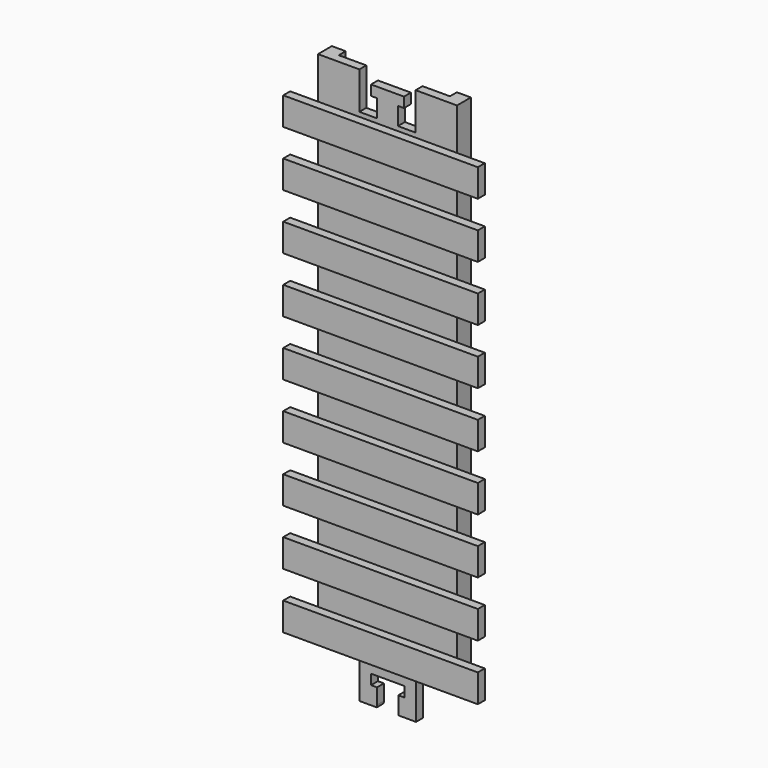
from build123d import *

# Parameters (mm, degrees)
F1_DEPTH = 3.175
F2_W     = 50.8
F2_H     = 10.1607441902
F2_W_2   = 10.16
F2_H_2   = 10.16
F2_H_3   = 10.1088657975
F2_H_4   = 10.2023631334
F3_DEPTH = 3.175
F2_H_5   = 10.2422460914
F4_DEPTH = 3.175
F5_W     = 5.1035365641
F5_H     = 189.5493796663
F5_W_2   = 5.0522950478
F6_DEPTH = 3.175


with BuildPart() as f1:
    # F0 (on Front) → F1 (new body)
    with BuildSketch(Plane.XZ):
        with BuildLine():
            Line((25.5517161727, -116.6203990579), (15.2647161727, -116.6203990579))
            Line((15.2647161727, -116.6203990579), (15.2647161727, -130.2710193916))
            Line((15.2647161727, -130.2710193916), (21.4880950641, -130.2710193916))
            ThreePointArc((21.4880950641, -130.2710193916), (21.5113434052, -129.8451671692), (21.5808121, -129.4243766025))
            Line((21.5808121, -129.4243766025), (21.5808121, -123.7957928851))
            Line((21.5808121, -123.7957928851), (19.3710121, -123.7957928851))
            Line((19.3710121, -123.7957928851), (19.3710121, -120.0983975604))
            Line((19.3710121, -120.0983975604), (31.5819798807, -120.0983975604))
            Line((31.5819798807, -120.0983975604), (31.5819798807, -123.7957928851))
            Line((31.5819798807, -123.7957928851), (29.3721798807, -123.7957928851))
            Line((29.3721798807, -123.7957928851), (29.3721798807, -130.2710193916))
            Line((29.3721798807, -130.2710193916), (35.8426272869, -130.2710193916))
            Line((35.8426272869, -130.2710193916), (35.8426272869, -116.6203990579))
            Line((35.8426272869, -116.6203990579), (25.5517161727, -116.6203990579))
        make_face()
        Polygon((15.113, 72.9289806084), (0, 72.9289806084), (0, -116.6203990579), (15.2647161727, -116.6203990579), (25.5517161727, -116.6203990579), (35.8426272869, -116.6203990579), (50.8, -116.6203990579), (50.8, 72.9289806084), (35.6909111142, 72.9289806084), (35.6909111142, 59.2783602747), (29.220463708, 59.2783602747), (29.220463708, 65.7749548554), (31.430263708, 65.7749548554), (31.430263708, 69.4723501801), (19.3802, 69.4723501801), (19.3802, 65.7749548554), (21.59, 65.7749548554), (21.59, 59.2783602747), (15.113, 59.2783602747), align=None)
    extrude(amount=F1_DEPTH)

    # F2 (on face) → F3 (join)
    with BuildSketch(Plane.XZ.offset(3.175)):
        with Locations((25.4, 52.5756378829)):
            Rectangle(F2_W, F2_H)
        with Locations((55.88, 52.5756378829)):
            Rectangle(F2_W_2, F2_H)
        with Locations((-5.08, 52.5756378829)):
            Rectangle(F2_W_2, F2_H)
        with Locations((-5.08, 32.2552657878)):
            Rectangle(F2_W_2, F2_H_2)
        with Locations((25.4, 32.2552657878)):
            Rectangle(F2_W, F2_H_2)
        with Locations((55.88, 32.2552657878)):
            Rectangle(F2_W_2, F2_H_2)
        with Locations((55.88, 11.9352657878)):
            Rectangle(F2_W_2, F2_H_2)
        with Locations((25.4, 11.9352657878)):
            Rectangle(F2_W, F2_H_2)
        with Locations((-5.08, 11.9352657878)):
            Rectangle(F2_W_2, F2_H_2)
        with Locations((-5.08, -8.3847342122)):
            Rectangle(F2_W_2, F2_H_2)
        with Locations((25.4, -8.3847342122)):
            Rectangle(F2_W, F2_H_2)
        with Locations((55.88, -8.3847342122)):
            Rectangle(F2_W_2, F2_H_2)
        with Locations((55.88, -28.7047342122)):
            Rectangle(F2_W_2, F2_H_2)
        with Locations((25.4, -28.7047342122)):
            Rectangle(F2_W, F2_H_2)
        with Locations((-5.08, -28.7047342122)):
            Rectangle(F2_W_2, F2_H_2)
        with Locations((-5.08, -49.0247342122)):
            Rectangle(F2_W_2, F2_H_2)
        with Locations((25.4, -49.0247342122)):
            Rectangle(F2_W, F2_H_2)
        with Locations((55.88, -49.0247342122)):
            Rectangle(F2_W_2, F2_H_2)
        with Locations((55.88, -69.310028106)):
            Rectangle(F2_W_2, F2_H_3)
        with Locations((25.4, -69.310028106)):
            Rectangle(F2_W, F2_H_3)
        with Locations((-5.08, -69.310028106)):
            Rectangle(F2_W_2, F2_H_3)
        with Locations((-5.08, -89.587919414)):
            Rectangle(F2_W_2, F2_H_4)
        with Locations((25.4, -89.587919414)):
            Rectangle(F2_W, F2_H_4)
        with Locations((55.88, -89.587919414)):
            Rectangle(F2_W_2, F2_H_4)
    extrude(amount=F3_DEPTH)

    # F2 (on face) → F4 (join)
    with BuildSketch(Plane.XZ.offset(3.175)):
        with Locations((25.4, -110.0125946105)):
            Rectangle(F2_W, F2_H_5)
        with Locations((55.88, -110.0125946105)):
            Rectangle(F2_W_2, F2_H_5)
        with Locations((-5.08, -110.0125946105)):
            Rectangle(F2_W_2, F2_H_5)
    extrude(amount=F4_DEPTH)

    # F5 (on face) → F6 (join)
    with BuildSketch(Plane(origin=(0, 0, 0), x_dir=(-1, 0, 0), z_dir=(0, 1, 0))):
        with Locations((-48.2482317179, -21.8457092247)):
            Rectangle(F5_W, F5_H)
        with Locations((-2.5261475239, -21.8457092247)):
            Rectangle(F5_W_2, F5_H)
    extrude(amount=F6_DEPTH)


solid = f1.part
